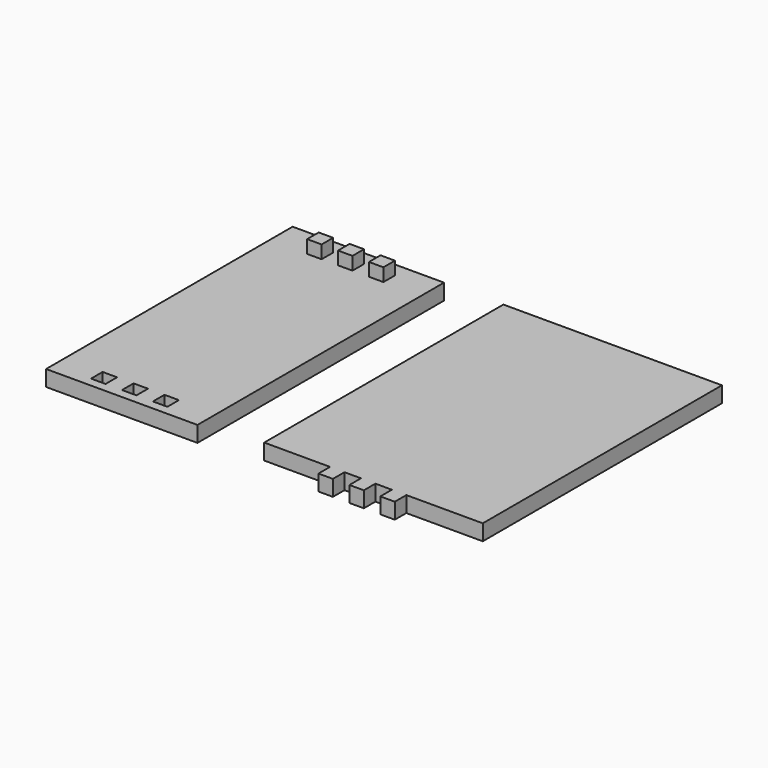
from build123d import *

# Parameters (mm, degrees)
F0_W     = 30.09
F0_H     = 61.25
F0_W_2   = 2.8702
F0_H_2   = 2.8702
F1_DEPTH = 3.15
F2_DEPTH = 5.7404


with BuildPart() as f1:
    # F0 (on Top) → F1 (new body)
    with BuildSketch(Plane.XY):
        with Locations((4.6974, -24.8846)):
            Rectangle(F0_W, F0_H)
        Polygon((0, -53.6702), (-2.88, -53.6702), (-2.88, -50.8), (-0.0098, -50.8), (0, -50.8), align=None, mode=Mode.SUBTRACT)
        Polygon((3.27, -53.6702), (3.27, -50.8), (6.1386, -50.8), (6.1402, -50.8), (6.1402, -53.6702), align=None, mode=Mode.SUBTRACT)
        with Locations((10.8519, -52.2351)):
            Rectangle(F0_W_2, F0_H_2, mode=Mode.SUBTRACT)
        with Locations((-1.4351, 1.4351)):
            Rectangle(F0_W_2, F0_H_2, mode=Mode.SUBTRACT)
        with Locations((4.7051, 1.4351)):
            Rectangle(F0_W_2, F0_H_2, mode=Mode.SUBTRACT)
        with Locations((10.8519, 1.4351)):
            Rectangle(F0_W_2, F0_H_2, mode=Mode.SUBTRACT)
        Polygon((31.538078, 5.7404), (31.538078, -53.6702), (44.615903, -53.6702), (44.615903, -56.5404), (47.486103, -56.5404), (47.486103, -53.6702), (50.762703, -53.6702), (50.762703, -56.5404), (53.632903, -56.5404), (53.632903, -53.6702), (56.909503, -53.6702), (56.909503, -56.5404), (59.779703, -56.5404), (59.779703, -53.6702), (74.975652, -53.6702), (74.975652, 5.7404), align=None)
    extrude(amount=F1_DEPTH)

    # F0 (on Top) → F2 (join)
    with BuildSketch(Plane.XY):
        with Locations((10.8519, 1.4351)):
            Rectangle(F0_W_2, F0_H_2)
        with Locations((4.7051, 1.4351)):
            Rectangle(F0_W_2, F0_H_2)
        with Locations((-1.4351, 1.4351)):
            Rectangle(F0_W_2, F0_H_2)
    extrude(amount=F2_DEPTH)


solid = f1.part
